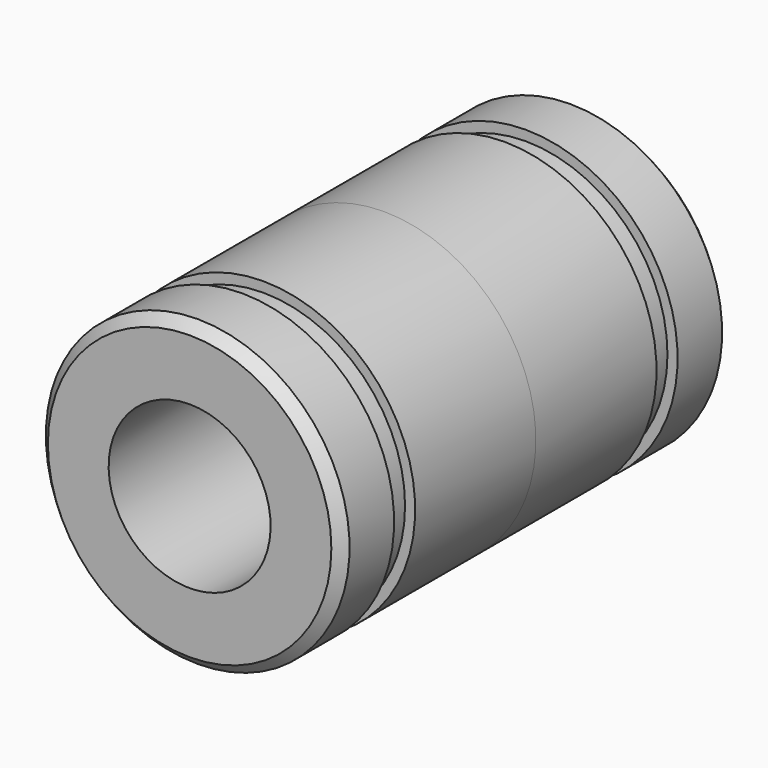
from build123d import *

# Parameters (mm, degrees)
F2_SIZE = 0.5


with BuildPart() as f1:
    # F0 (on Right) → F1 (revolve)
    with BuildSketch(Plane.YZ):
        Polygon((0, 7.5), (0, 4), (12, 4), (12, 7.5), (8.75, 7.5), (8.75, 7), (7.45, 7), (7.45, 7.5), align=None)
    revolve(axis=Axis((0, 6.756852, 0), (0, 1, 0)))

    # F2
    f2_edges = [f1.edges().sort_by_distance(p)[0] for p in [
        (0, 12, -7.5),
    ]]
    chamfer(f2_edges, length=F2_SIZE)

    # F3: F1 across face


with BuildPart() as f1_1:
    add(f1.part)
    add(f1.part.mirror(Plane.XZ))


solid = f1_1.part
